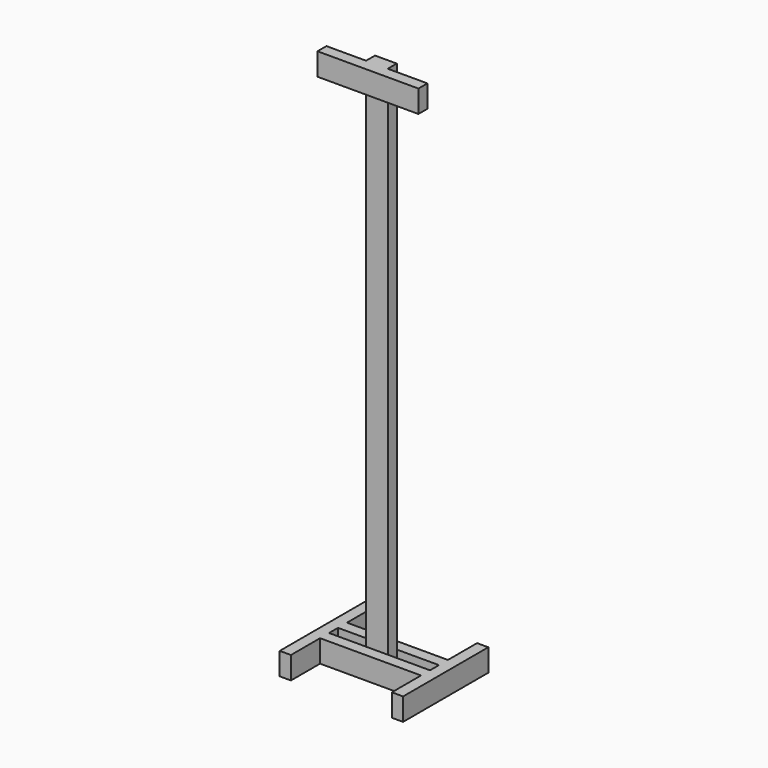
from build123d import *

# Parameters (mm, degrees)
F0_W     = 457.2
F0_H     = 50.8
F1_DEPTH = 101.6
F2_W     = 98.554954
F2_H     = 50.8
F3_DEPTH = 2438.4
F4_W     = 457.2
F4_H     = 101.6
F5_DEPTH = 50.8


with BuildPart() as f1:
    # F0 (on Top) → F1 (new body)
    with BuildSketch(Plane.XY):
        with Locations((9.337193, 80.525405)):
            Rectangle(F0_W, F0_H)
        Polygon((-219.262807, 55.125405), (-219.262807, 105.925405), (-219.262807, 271.025405), (-270.062807, 271.025405), (-270.062807, -211.574595), (-219.262807, -211.574595), (-219.262807, -46.474595), (-219.262807, 4.325405), align=None)
        Polygon((237.937193, 271.025405), (237.937193, 105.925405), (237.937193, 55.125405), (237.937193, 4.325405), (237.937193, -46.474595), (237.937193, -211.574595), (288.737193, -211.574595), (288.737193, 271.025405), align=None)
        with Locations((9.337193, -21.074595)):
            Rectangle(F0_W, F0_H)
    extrude(amount=F1_DEPTH)

    # F2 (on Top) → F3 (join)
    with BuildSketch(Plane.XY):
        with Locations((-2.403777, 29.725405)):
            Rectangle(F2_W, F2_H)
    extrude(amount=F3_DEPTH)

    # F4 (on face) → F5 (join)
    with BuildSketch(Plane.XZ.offset(-4.325405)):
        with Locations((-2.403777, 2387.6)):
            Rectangle(F4_W, F4_H)
    extrude(amount=F5_DEPTH)


solid = f1.part
